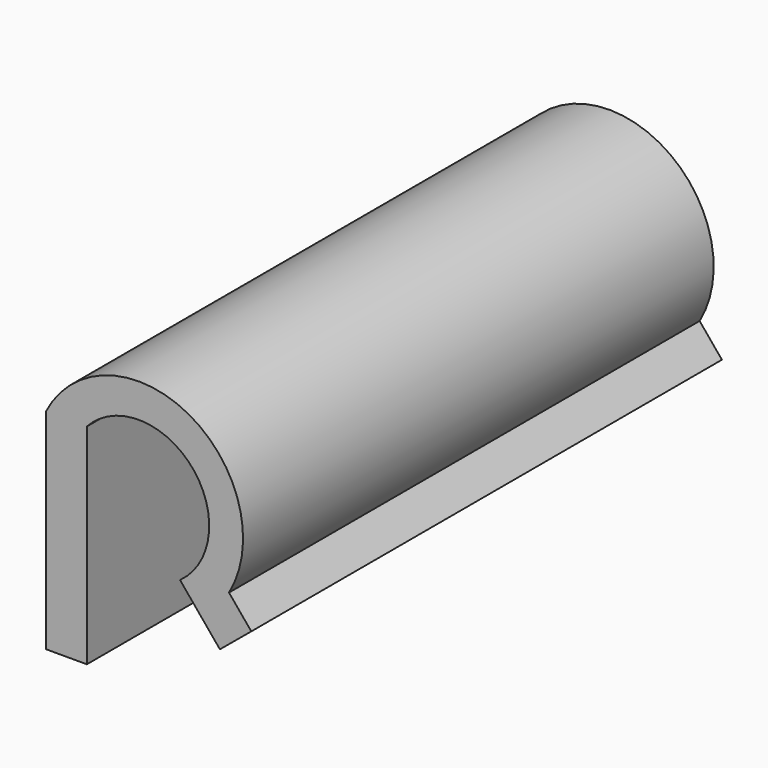
from build123d import *

# Parameters (mm, degrees)
F1_DEPTH = 12.625


with BuildPart() as f1:
    # F0 (on Front) → F1 (new body, symmetric)
    with BuildSketch(Plane.XZ):
        with BuildLine():
            Line((0, 9), (0, 0))
            Line((0, 0), (1.75, 0))
            Line((1.75, 0), (1.75, 4.487874))
            Line((1.75, 4.487874), (1.75, 8.987874))
            ThreePointArc((1.75, 8.987874), (6.237186, 8.948706), (5.75, 4.487874))
            Line((5.75, 4.487874), (7.460699, 2.422835))
            Line((7.460699, 2.422835), (8.808343, 3.539237))
            Line((8.808343, 3.539237), (7.851427, 4.694361))
            ThreePointArc((7.851427, 4.694361), (6.12928, 10.865432), (0, 9))
        make_face()
    extrude(amount=F1_DEPTH, both=True)


solid = f1.part
